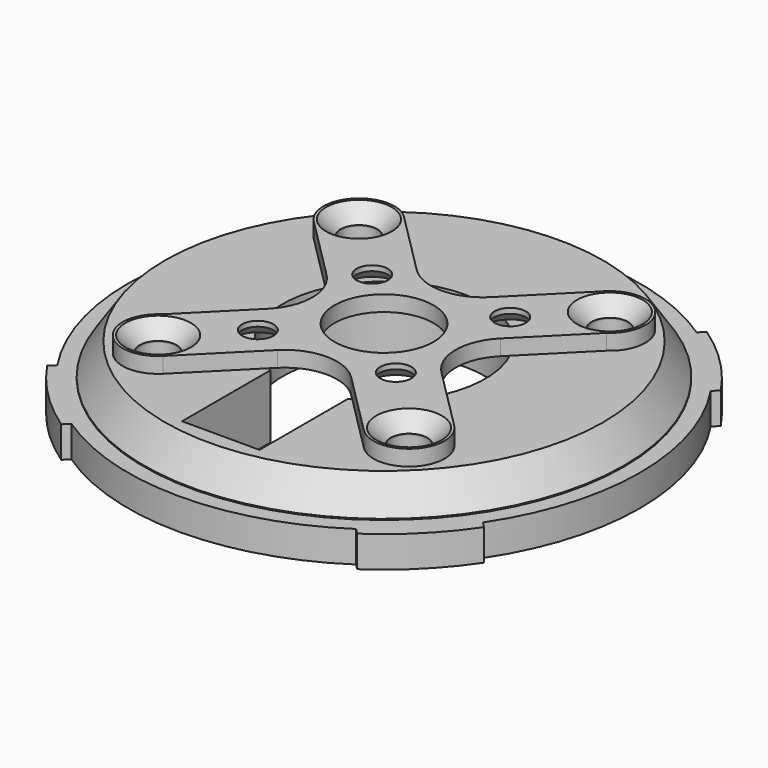
from build123d import *

# Parameters (mm, degrees)
F0_R      = 24.5348793033
F1_DEPTH  = 3
F2_R      = 23.001718831
F3_DEPTH  = 3.1
F4_SIZE2  = 3
F4_SIZE   = 2
F7_DEPTH  = 25
F5_R      = 1.75
F8_DEPTH  = 25
F9_R      = 1.75
F9_R_2    = 1.5
F9_R_3    = 4.75
F10_DEPTH = 1.5
F11_SIZE  = 1.4
F13_DEPTH = 2.8
F15_DEPTH = 3
F16_SIZE  = 1


with BuildPart() as f1:
    # F0 (on Top) → F1 (new body)
    with BuildSketch(Plane.XY):
        Circle(F0_R)
    extrude(amount=-F1_DEPTH)

    # F2 (on face) → F3 (join)
    with BuildSketch(Plane.XY):
        Circle(F2_R)
    extrude(amount=F3_DEPTH)

    # F4
    f4_edges = [f1.edges().sort_by_distance(p)[0] for p in [
        (-23.001719, 0, 3.1),
    ]]
    f4_side = f1.faces().sort_by_distance((0, 0, 3.1))[0]
    chamfer(f4_edges, length=F4_SIZE, length2=F4_SIZE2, reference=f4_side)

    # F6 (on face) → F7 (cut)
    with BuildSketch(Plane.XY.offset(3.1)):
        with BuildLine():
            Line((3.7106982378, -19.552461803), (3.7106982378, -8.9704936956))
            ThreePointArc((3.7106982378, -8.9704936956), (0.0010883204, 9.7076792989), (-3.7127094947, -8.9696614631))
            Line((-3.7127094947, -8.9696614631), (-3.7127094947, -19.552461803))
            Line((-3.7127094947, -19.552461803), (3.7106982378, -19.552461803))
        make_face()
    extrude(amount=-F7_DEPTH, mode=Mode.SUBTRACT)

    # F5 (on face) → F8 (cut)
    with BuildSketch(Plane.XY.offset(3.1)):
        with Locations((-12.0198717341, 12.024898082)):
            Circle(F5_R)
        with Locations((-12.024898082, -12.0198717341)):
            Circle(F5_R)
        with Locations((12.0198717341, -12.024898082)):
            Circle(F5_R)
        with Locations((12.024898082, 12.0198717341)):
            Circle(F5_R)
    extrude(amount=-F8_DEPTH, mode=Mode.SUBTRACT)

    # F12 (on face) → F13 (cut)
    with BuildSketch(Plane(origin=(0, 0, -3), x_dir=(1, 0, 0), z_dir=(0, 0, -1))):
        Polygon((10.3198717341, 9.0804117092), (13.7198717341, 9.0804117092), (15.4198717341, 12.024898082), (13.7198717341, 14.9693844549), (10.3198717341, 14.9693844549), (8.6198717341, 12.024898082), align=None)
        Polygon((-14.9693844549, 10.3198717341), (-12.024898082, 8.6198717341), (-9.0804117092, 10.3198717341), (-9.0804117092, 13.7198717341), (-12.024898082, 15.4198717341), (-14.9693844549, 13.7198717341), align=None)
        Polygon((-10.3198717341, -14.9693844549), (-8.6198717341, -12.024898082), (-10.3198717341, -9.0804117092), (-13.7198717341, -9.0804117092), (-15.4198717341, -12.024898082), (-13.7198717341, -14.9693844549), align=None)
        Polygon((14.9693844549, -10.3198717341), (12.024898082, -8.6198717341), (9.0804117092, -10.3198717341), (9.0804117092, -13.7198717341), (12.024898082, -15.4198717341), (14.9693844549, -13.7198717341), align=None)
    extrude(amount=-F13_DEPTH, mode=Mode.SUBTRACT)

    # F14 (on face) → F15 (join, through all)
    with BuildSketch(Plane.XY):
        with BuildLine():
            Line((-20.933703516, 14.1811557528), (-20.3933553313, 13.6407976583))
            ThreePointArc((-20.3933553313, 13.6407976583), (-17.3486204447, 17.3489386157), (-13.6404236486, 20.3936054957))
            Line((-13.6404236486, 20.3936054957), (-14.1807718332, 20.9339635902))
            ThreePointArc((-14.1807718332, 20.9339635902), (-17.8789456676, 17.8792735646), (-20.933703516, 14.1811557528))
        make_face()
        with BuildLine():
            Line((14.1807718332, 20.9339635902), (13.6404236486, 20.3936054957))
            ThreePointArc((13.6404236486, 20.3936054957), (17.3486204447, 17.3489386157), (20.3933553313, 13.6407976583))
            Line((20.3933553313, 13.6407976583), (20.933703516, 14.1811557528))
            ThreePointArc((20.933703516, 14.1811557528), (17.8789456676, 17.8792735646), (14.1807718332, 20.9339635902))
        make_face()
        with BuildLine():
            Line((-20.3933553313, -13.6407976583), (-20.933703516, -14.1811557528))
            ThreePointArc((-20.933703516, -14.1811557528), (-17.8789456676, -17.8792735646), (-14.1807718332, -20.9339635902))
            Line((-14.1807718332, -20.9339635902), (-13.6404236486, -20.3936054957))
            ThreePointArc((-13.6404236486, -20.3936054957), (-17.3486204447, -17.3489386157), (-20.3933553313, -13.6407976583))
        make_face()
        with BuildLine():
            ThreePointArc((20.3933553313, -13.6407976583), (17.3486204447, -17.3489386157), (13.6404236486, -20.3936054957))
            Line((13.6404236486, -20.3936054957), (14.1807718332, -20.9339635902))
            ThreePointArc((14.1807718332, -20.9339635902), (17.8789456676, -17.8792735646), (20.933703516, -14.1811557528))
            Line((20.933703516, -14.1811557528), (20.3933553313, -13.6407976583))
        make_face()
    extrude(amount=-F15_DEPTH)


with BuildPart() as f10:
    # F9 (on face) → F10 (new body)
    with BuildSketch(Plane.XY.offset(3.1)):
        with BuildLine():
            Line((-9.8081892726, 14.6072343672), (-9.4379238803, 14.2370339911))
            ThreePointArc((-9.4379238803, 14.2370339911), (-9.6159197838, 14.4292722252), (-9.8081892726, 14.6072343672))
        make_face()
        with BuildLine():
            Line((-3.5204347872, 8.3205839718), (-9.4379238803, 14.2370339911))
            Line((-9.4379238803, 14.2370339911), (-9.8081892726, 14.6072343672))
            ThreePointArc((-9.8081892726, 14.6072343672), (-14.5753374635, 14.2675739181), (-14.293214512, 9.4966748691))
            Line((-14.293214512, 9.4966748691), (-8.2999140432, 3.499159906))
            ThreePointArc((-8.2999140432, 3.499159906), (-6.8366915057, -0.0317895968), (-8.2951932329, -3.5646917038))
            Line((-8.2951932329, -3.5646917038), (-13.8861894319, -9.1745960212))
            ThreePointArc((-13.8861894319, -9.1745960212), (-14.6619167368, -14.1660617828), (-9.616930653, -14.4202245568))
            Line((-9.616930653, -14.4202245568), (-3.5536370818, -8.3376969085))
            ThreePointArc((-3.5536370818, -8.3376969085), (-0.0155890528, -6.8676284788), (3.5242675881, -8.3333365008))
            Line((3.5242675881, -8.3333365008), (9.6148639876, -14.4282158133))
            ThreePointArc((9.6148639876, -14.4282158133), (14.4237179823, -14.4293779042), (14.4238238531, -9.6205237702))
            Line((14.4238238531, -9.6205237702), (8.3101751825, -3.5079486176))
            ThreePointArc((8.3101751825, -3.5079486176), (6.8454003848, 0.0237172124), (8.3042703148, 3.5578263322))
            Line((8.3042703148, 3.5578263322), (13.9372046303, 9.2086295323))
            ThreePointArc((13.9372046303, 9.2086295322), (14.7179565191, 14.0953083038), (9.7936171829, 14.5852930278))
            Line((9.7936171829, 14.5852930278), (9.4519583975, 14.242478791))
            Line((9.4519583975, 14.242478791), (3.5562858254, 8.3268677194))
            ThreePointArc((3.5562858254, 8.3268677194), (0.0192283987, 6.8564302711), (-3.5204347872, 8.3205839718))
        make_face()
        with Locations((-12.024898082, -12.0198717341)):
            Circle(F9_R, mode=Mode.SUBTRACT)
        with Locations((-6.7189183804, -6.71611)):
            Circle(F9_R_2, mode=Mode.SUBTRACT)
        with Locations((8.44e-08, 8.43e-08)):
            Circle(F9_R_3, mode=Mode.SUBTRACT)
        with Locations((12.0198717341, -12.024898082)):
            Circle(F9_R, mode=Mode.SUBTRACT)
        with Locations((5.6556717343, -5.6580365176)):
            Circle(F9_R_2, mode=Mode.SUBTRACT)
        with Locations((-5.6556715655, 5.6580366862)):
            Circle(F9_R_2, mode=Mode.SUBTRACT)
        with Locations((-12.0198717341, 12.024898082)):
            Circle(F9_R, mode=Mode.SUBTRACT)
        with Locations((6.7189185491, 6.7161101686)):
            Circle(F9_R_2, mode=Mode.SUBTRACT)
        with Locations((12.024898082, 12.0198717341)):
            Circle(F9_R, mode=Mode.SUBTRACT)
        with BuildLine():
            ThreePointArc((9.7936171829, 14.5852930278), (9.6166800158, 14.4199730976), (9.4519583975, 14.242478791))
            Line((9.4519583975, 14.242478791), (9.7936171829, 14.5852930278))
        make_face()
    extrude(amount=F10_DEPTH)

    # F11
    f11_edges = [f10.edges().sort_by_distance(p)[0] for p in [
        (-13.769872, 12.024898, 4.6),
        (10.274898, 12.019872, 4.6),
        (-13.774898, -12.019872, 4.6),
        (10.269872, -12.024898, 4.6),
    ]]
    chamfer(f11_edges, length=F11_SIZE)

    # F16
    f16_edges = [f10.edges().sort_by_distance(p)[0] for p in [
        (-8.218918, -6.71611, 3.1),
        (-7.155672, 5.658037, 3.1),
        (4.155672, -5.658037, 3.1),
        (5.218919, 6.71611, 3.1),
    ]]
    chamfer(f16_edges, length=F16_SIZE)


solid = Compound([f1.part, f10.part])
